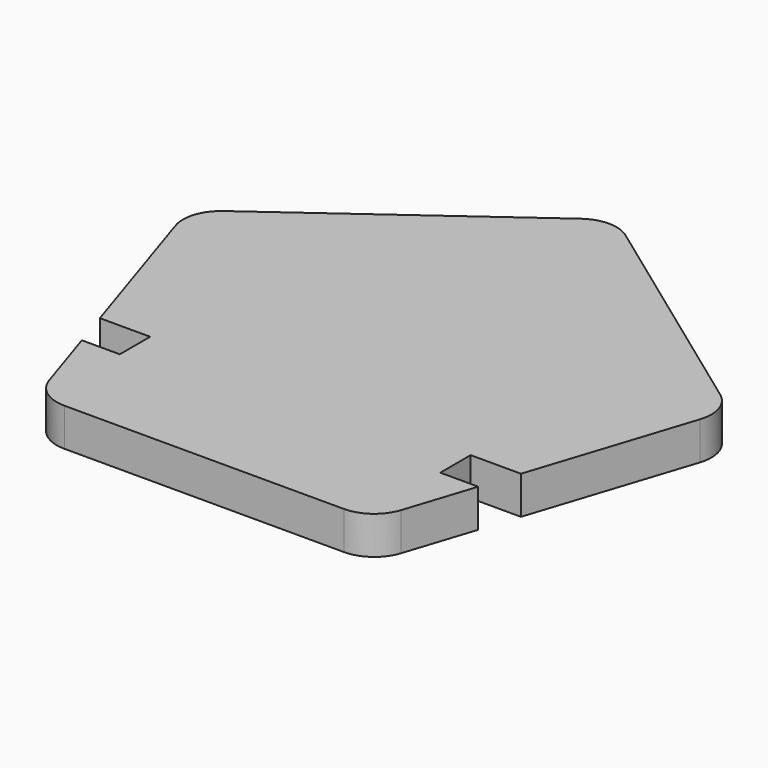
from build123d import *

# Parameters (mm, degrees)
F1_DEPTH = 2


with BuildPart() as f1:
    # F0 (on Top) → F1 (new body)
    with BuildSketch(Plane.XY):
        with BuildLine():
            Line((13.090277, 5.489357), (1.175571, 14.145898))
            ThreePointArc((1.175571, 14.145898), (0, 14.527864), (-1.175571, 14.145898))
            Line((-1.175571, 14.145898), (-13.090277, 5.489357))
            ThreePointArc((-13.090277, 5.489357), (-13.81682, 4.489357), (-13.81682, 3.253289))
            Line((-13.81682, 3.253289), (-11.091217, -5.135255))
            Line((-11.091217, -5.135255), (-8.441377, -5.135255))
            Line((-8.441377, -5.135255), (-8.441377, -7.135255))
            Line((-8.441377, -7.135255), (-10.441377, -7.135255))
            Line((-10.441377, -7.135255), (-9.265807, -10.753289))
            ThreePointArc((-9.265807, -10.753289), (-8.539264, -11.753289), (-7.363694, -12.135255))
            Line((-7.363694, -12.135255), (7.363694, -12.135255))
            ThreePointArc((7.363694, -12.135255), (8.539264, -11.753289), (9.265807, -10.753289))
            Line((9.265807, -10.753289), (10.441377, -7.135255))
            Line((10.441377, -7.135255), (8.441377, -7.135255))
            Line((8.441377, -7.135255), (8.441377, -5.135255))
            Line((8.441377, -5.135255), (11.091217, -5.135255))
            Line((11.091217, -5.135255), (13.81682, 3.253289))
            ThreePointArc((13.81682, 3.253289), (13.81682, 4.489357), (13.090277, 5.489357))
        make_face()
    extrude(amount=F1_DEPTH)


solid = f1.part
